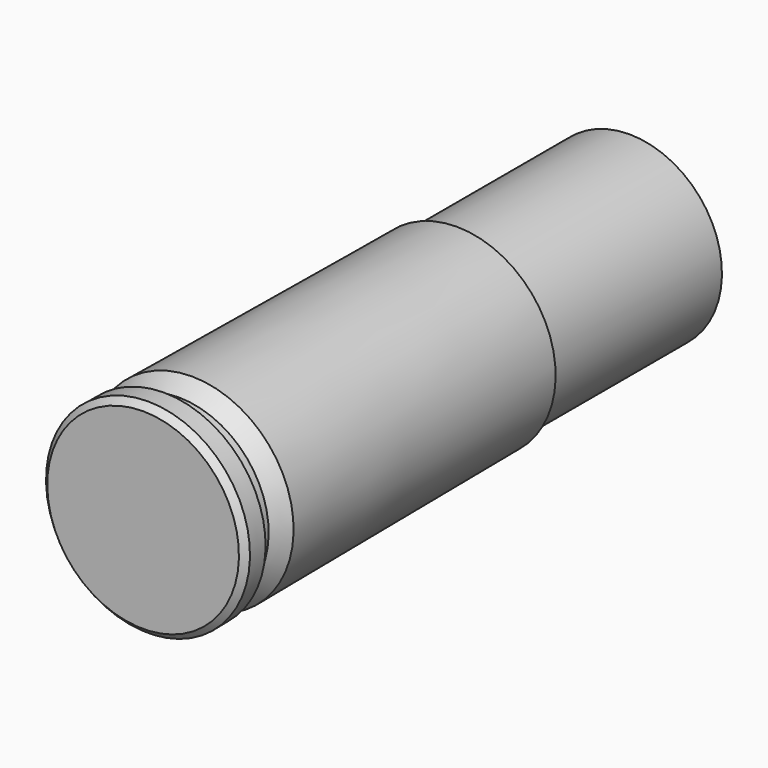
from build123d import *

# Parameters (mm, degrees)
F0_W = 10.54
F0_H = 4.515


with BuildPart() as f1:
    # F0 (on Right) → F1 (revolve)
    with BuildSketch(Plane.YZ):
        Polygon((0, 4.68), (0, 0), (0.3, 0), (0.3, 4.98), align=None)
        Polygon((0.3, 4.98), (0.3, 0), (1.27, 0), (2.17, 0), (2.17, 4.395), (1.27, 4.395), (1.27, 4.965), align=None)
        Polygon((2.17, 4.395), (2.17, 0), (2.98, 0), (2.98, 4.965), align=None)
        Polygon((2.98, 4.965), (2.98, 0), (19.15, 0), (19.15, 4.515), (19.15, 4.825), align=None)
        with Locations((24.42, 2.2575)):
            Rectangle(F0_W, F0_H)
    revolve(axis=Axis((0, 11.065, 0), (0, 1, 0)))


solid = f1.part
